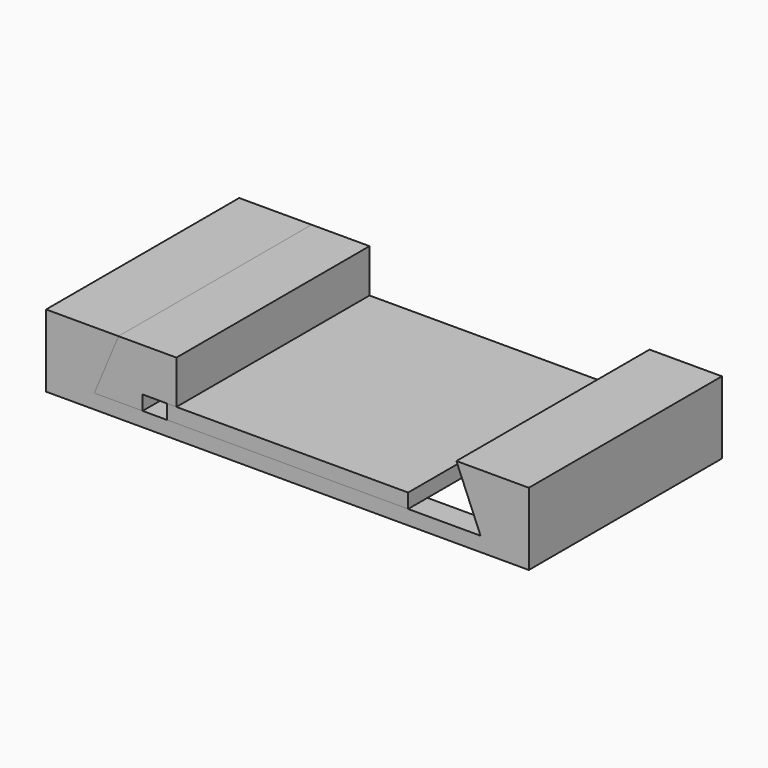
from build123d import *

# Parameters (mm, degrees)
F0_W     = 70
F0_H     = 5
F1_DEPTH = 3
F0_W_2   = 10
F0_H_2   = 50
F2_DEPTH = 15
F4_DEPTH = 50.001
F6_DEPTH = 50
F7_DEPTH = 50


with BuildPart() as f1:
    # F0 (on Top) → F1 (new body)
    with BuildSketch(Plane.XY):
        with Locations((0, -22.5)):
            Rectangle(F0_W, F0_H)
        Polygon((-40, -25), (-35, -25), (-35, -20), (-35, 20), (-35, 25), (-40, 25), align=None)
        with Locations((0, 22.5)):
            Rectangle(F0_W, F0_H)
        Polygon((35, -25), (40, -25), (40, 25), (35, 25), (35, 20), (35, -20), align=None)
    extrude(amount=F1_DEPTH)

    # F0 (on Top) → F2 (join)
    with BuildSketch(Plane.XY):
        Polygon((-40, -25), (-35, -25), (-35, -20), (-35, 20), (-35, 25), (-40, 25), align=None)
        with Locations((-45, 0)):
            Rectangle(F0_W_2, F0_H_2)
        Polygon((35, -25), (40, -25), (40, 25), (35, 25), (35, 20), (35, -20), align=None)
        with Locations((45, 0)):
            Rectangle(F0_W_2, F0_H_2)
    extrude(amount=F2_DEPTH)

    # F3 (on face) → F4 (cut, through all)
    with BuildSketch(Plane.XZ.offset(25)):
        Polygon((-35, 3), (-35, 15), (-40, 3), align=None)
        Polygon((35, 15), (35, 3), (40, 3), align=None)
    extrude(amount=-F4_DEPTH, mode=Mode.SUBTRACT)


with BuildPart() as f6:
    # F5 (on face) → F6 (new body, through all)
    with BuildSketch(Plane.XZ.offset(25)):
        Polygon((25, 6), (-23, 6), (-25, 6), (-25, 3), (25, 3), align=None)
    extrude(amount=-F6_DEPTH)


with BuildPart() as f7:
    # F5 (on face) → F7 (new body, through all)
    with BuildSketch(Plane.XZ.offset(25)):
        Polygon((-23, 15), (-35, 15), (-40, 3), (-30, 3), (-30, 6), (-25, 6), (-23, 6), align=None)
    extrude(amount=-F7_DEPTH)


solid = Compound([f1.part, f6.part, f7.part])
